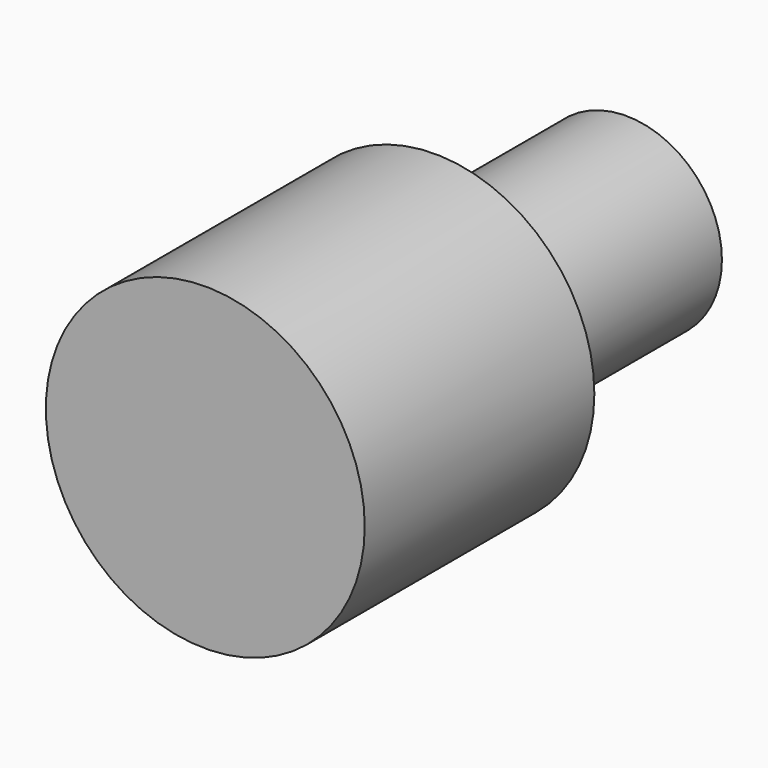
from build123d import *

# Parameters (mm, degrees)
CYLINDER006_R          = 6
CYLINDER006_DEPTH      = 15
CYLINDER006_ROLL_ANGLE = 90
CYLINDER_R             = 10
CYLINDER_DEPTH         = 18
CYLINDER_ROLL_ANGLE    = 90


with BuildPart() as cylinder006:
    # Cylinder006 → Cylinder006 (new body)
    with BuildSketch(Plane.XY):
        Circle(CYLINDER006_R)
    extrude(amount=CYLINDER006_DEPTH)


with BuildPart() as cylinder006_1:
    # Cylinder006 roll: moved
    add(cylinder006.part.rotate(Axis((0, 0, 0), (1, 0, 0)), CYLINDER006_ROLL_ANGLE))


with BuildPart() as cylinder006_2:
    # Cylinder006 placement: moved
    add(cylinder006_1.part.moved(Location((450, 250, 50))))


with BuildPart() as obj1:
    # Cylinder → Cylinder (new body)
    with BuildSketch(Plane.XY):
        Circle(CYLINDER_R)
    extrude(amount=CYLINDER_DEPTH)


with BuildPart() as obj1_1:
    # Cylinder roll: moved
    add(obj1.part.rotate(Axis((0, 0, 0), (1, 0, 0)), CYLINDER_ROLL_ANGLE))


with BuildPart() as obj1_2:
    # Cylinder placement: moved
    add(obj1_1.part.moved(Location((450, 235, 50))))

    # Fusion: union Cylinder006
    add(cylinder006_2.part)


solid = obj1_2.part
